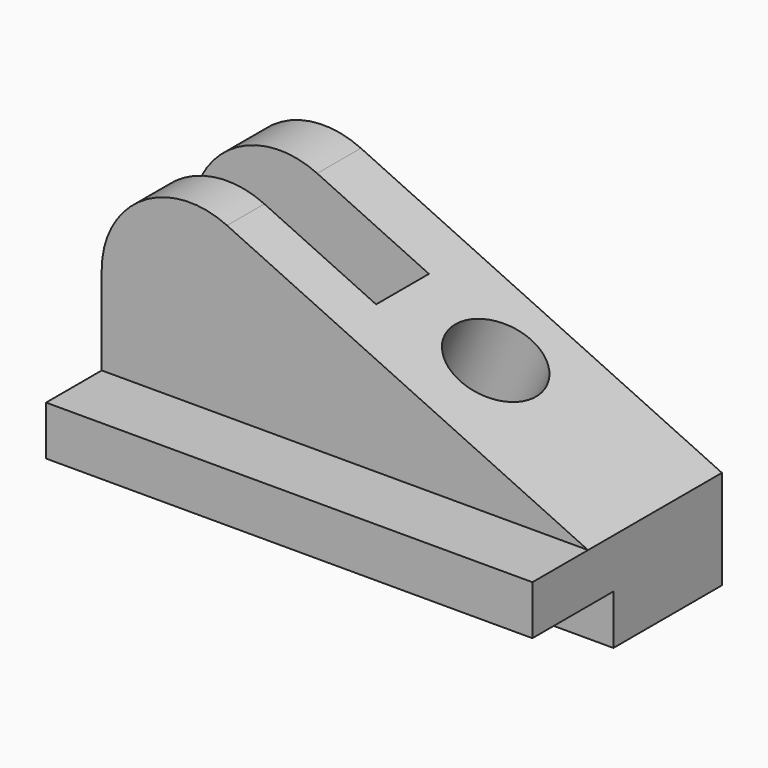
from build123d import *

# Parameters (mm, degrees)
F1_DEPTH = 68.326
F2_W     = 29.21
F2_H     = 14.351
F2_W_2   = 20.066
F2_H_2   = 51.054
F3_DEPTH = 140.2725
F9_DEPTH = 19.05


with BuildPart() as f1:
    # F0 (on Front) → F1 (new body)
    with BuildSketch(Plane.XZ):
        with BuildLine():
            Line((-140.2715, 0), (0, 0))
            Line((0, 0), (0, 28.575))
            Line((0, 28.575), (-104.1369961518, 77.1348788028))
            ThreePointArc((-104.1369961518, 77.1348788028), (-128.518910052, 75.5368037358), (-140.2715, 54.1146610121))
            Line((-140.2715, 54.1146610121), (-140.2715, 0))
        make_face()
    extrude(amount=F1_DEPTH)

    # F2 (on face) → F3 (cut, through all)
    with BuildSketch(Plane.YZ):
        with Locations((-53.721, 7.1755)):
            Rectangle(F2_W, F2_H)
        with Locations((-58.293, 54.102)):
            Rectangle(F2_W_2, F2_H_2)
    extrude(amount=-F3_DEPTH, mode=Mode.SUBTRACT)

    # F5 (on offset) → F6 (revolve, cut)
    with BuildSketch(Plane.XZ.offset(22.225)):
        Polygon((-71.1155433788, 30.3478274527), (-62.0181519767, 19.5059785661), (-47.4676890845, 50.709546935), (-59.0928990688, 56.1304713784), align=None)
    revolve(axis=Axis((-54.7429205306, -22.225, 35.1077627505), (0.4226182617, 0, 0.906307787)), mode=Mode.SUBTRACT)

    # F8 (on offset) → F9 (cut)
    with BuildSketch(Plane.XZ.offset(15.748)):
        Polygon((-140.2715, 82.0435324035), (-140.2715, 38.0492), (-83.1215, 38.0492), (-71.9043142808, 62.1045324035), (-71.9043142808, 82.0435324035), align=None)
    extrude(amount=F9_DEPTH, mode=Mode.SUBTRACT)


solid = f1.part
